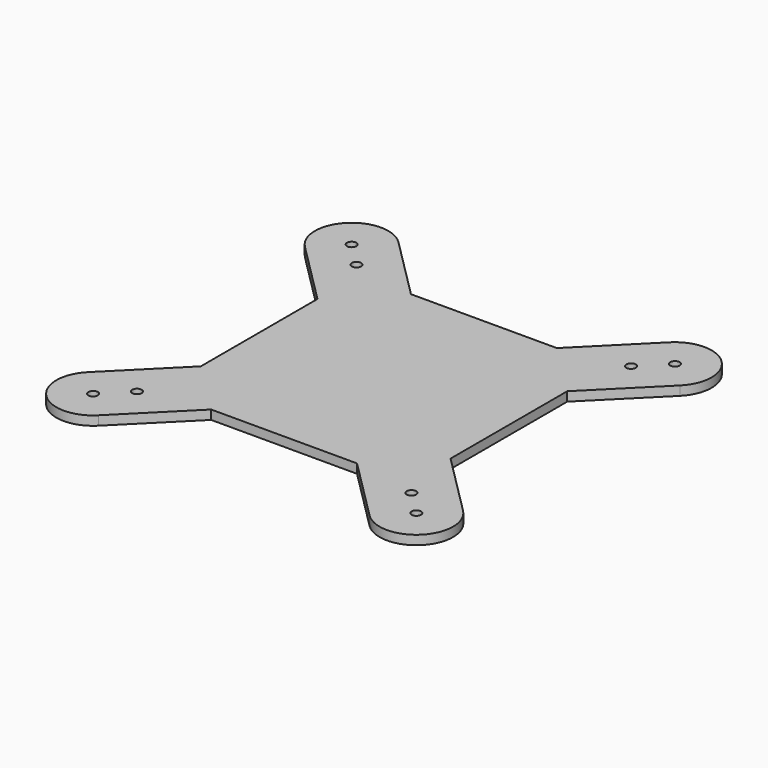
from build123d import *

# Parameters (mm, degrees)
F1_DEPTH = 3.175
F3_D     = 3.2639
F5_D     = 3.2639


with BuildPart() as f1:
    # F0 (on Top) → F1 (new body)
    with BuildSketch(Plane.XY):
        with BuildLine():
            Line((-25.2194877579, 43.18), (-46.8997438789, 64.8602561211))
            ThreePointArc((-46.8997438789, 64.8602561211), (-64.8602561211, 64.8602561211), (-64.8602561211, 46.8997438789))
            Line((-64.8602561211, 46.8997438789), (-43.18, 25.2194877579))
            Line((-43.18, 25.2194877579), (-43.18, -25.2194877579))
            Line((-43.18, -25.2194877579), (-64.8602561211, -46.8997438789))
            ThreePointArc((-64.8602561211, -46.8997438789), (-64.8602561211, -64.8602561211), (-46.8997438789, -64.8602561211))
            Line((-46.8997438789, -64.8602561211), (-25.2194877579, -43.18))
            Line((-25.2194877579, -43.18), (25.2194877579, -43.18))
            Line((25.2194877579, -43.18), (46.8997438789, -64.8602561211))
            ThreePointArc((46.8997438789, -64.8602561211), (64.8602561211, -64.8602561211), (64.8602561211, -46.8997438789))
            Line((64.8602561211, -46.8997438789), (43.18, -25.2194877579))
            Line((43.18, -25.2194877579), (43.18, 25.2194877579))
            Line((43.18, 25.2194877579), (64.8602561211, 46.8997438789))
            ThreePointArc((64.8602561211, 46.8997438789), (64.8602561211, 64.8602561211), (46.8997438789, 64.8602561211))
            Line((46.8997438789, 64.8602561211), (25.2194877579, 43.18))
            Line((25.2194877579, 43.18), (-25.2194877579, 43.18))
        make_face()
    extrude(amount=F1_DEPTH)

    # F3 (through all)
    with Locations(Plane.XY.offset(3.175)):
        with Locations((-55.88, 55.88), (55.88, 55.88), (55.88, -55.88), (-55.88, -55.88)):
            Hole(F3_D / 2)

    # F5 (through all)
    with Locations(Plane.XY.offset(3.175)):
        with Locations((-47.4610098865, 47.4610098865), (47.4610098865, 47.4610098865), (47.4610098865, -47.4610098865), (-47.4610098865, -47.4610098865)):
            Hole(F5_D / 2)


solid = f1.part
